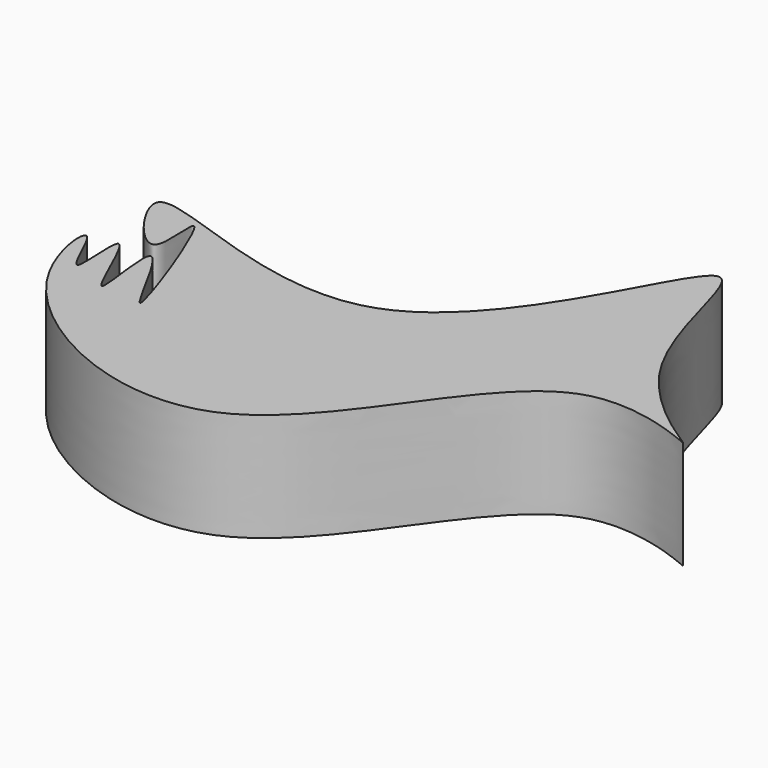
from build123d import *

# Parameters (mm, degrees)
F1_DEPTH = 25.4


with BuildPart() as f1:
    # F0 (on Top) → F1 (new body)
    with BuildSketch(Plane.XY):
        with BuildLine():
            add(Edge.make_bspline(
                [(-217.6577597857, -137.6817971468), (-216.3235637526, -131.4511455843), (-148.2365496992, -175.1091705544), (-116.1110737847, -66.9713493803), (-112.6147692071, -135.683384373), (-68.6048766005, -158.8944736518), (-120.4496088662, -133.3359326535), (-146.8104068639, -218.2887249115), (-219.0508535773, -182.6470459398), (-221.599366845, -146.1787042834), (-211.0633909422, -175.5638077428), (-215.8720378095, -141.9270270352), (-200.5811437772, -184.2232295994), (-210.1794862974, -139.5240937751), (-185.9751334912, -192.3548122866), (-210.7745386813, -124.0712589893), (-203.2986527733, -161.1531000329), (-218.3735045067, -141.0243014372), (-217.6577597857, -137.6817971468)],
                knots=[0, 0, 0, 0, 0.08953614, 0.1843825735, 0.257405033, 0.3217715956, 0.3824156092, 0.4795372166, 0.5725740283, 0.6222846888, 0.6621260508, 0.7017789063, 0.7505016243, 0.7959634841, 0.8470110607, 0.9139583745, 0.9519673137, 1, 1, 1, 1], degree=3))
        make_face()
    extrude(amount=F1_DEPTH)


solid = f1.part
